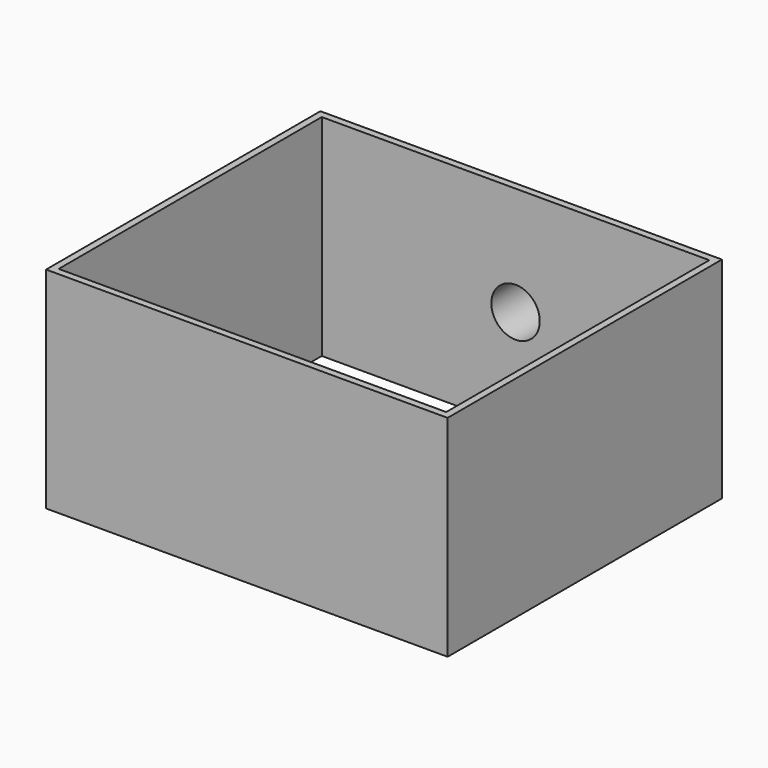
from build123d import *

# Parameters (mm, degrees)
F0_W     = 143.1653276086
F0_H     = 97.2580723464
F1_DEPTH = 25
F2_DEPTH = 25
F3_DEPTH = 25
F4_DEPTH = 25
F5_T     = -2.5
F6_R     = 10.6397034599
F7_DEPTH = 22
F8_T     = -2
F9_DEPTH = 25


with BuildPart() as f1:
    # F0 (on Top) → F1 (new body)
    with BuildSketch(Plane.XY):
        with Locations((3.7253e-06, -3.1754020602)):
            Rectangle(F0_W, F0_H)
    extrude(amount=F1_DEPTH)

    # F2 (add): faces of the model
    f2_faces = [f1.faces().sort_by_distance(p)[0] for p in [
        (3.7253e-06, -51.8044382334, 12.5),
        (3.7253e-06, 45.4536341131, 12.5),
    ]]
    extrude(f2_faces, amount=F2_DEPTH, dir=(0, -1, 0))

    # F3 (add): faces of the model
    f3_faces = [f1.faces().sort_by_distance(p)[0] for p in [
        (3.7253e-06, -15.6754020602, 25),
        (3.7253e-06, -15.6754020602, 0),
    ]]
    extrude(f3_faces, amount=F3_DEPTH, dir=(0, 0, 1))

    # F4 (add): faces of the model
    f4_faces = [f1.faces().sort_by_distance(p)[0] for p in [
        (3.7253e-06, -15.6754020602, 50),
        (3.7253e-06, -15.6754020602, 0),
    ]]
    extrude(f4_faces, amount=F4_DEPTH, dir=(0, 0, 1))

    # F5
    f5_openings = [f1.faces().sort_by_distance(p)[0] for p in [
        (4e-06, -15.675402, 0),
        (4e-06, -15.675402, 75),
    ]]
    offset(amount=F5_T, openings=f5_openings)

    # F6 (on face) → F7 (join)
    with BuildSketch(Plane(origin=(0, 45.4536341131, 0), x_dir=(-1, 0, 0), z_dir=(0, 1, 0))):
        with Locations((0, 36.1995995045)):
            Circle(F6_R)
    extrude(amount=F7_DEPTH)

    # F8
    f8_openings = [f1.faces().sort_by_distance(p)[0] for p in [
        (0, 67.453634, 36.1996),
    ]]
    offset(amount=F8_T, openings=f8_openings, kind=Kind.INTERSECTION)

    # F9 (cut): a face of the model
    f9_faces = [f1.faces().sort_by_distance(p)[0] for p in [
        (0, 44.9536341131, 36.1995995045),
    ]]
    extrude(f9_faces, amount=-F9_DEPTH, mode=Mode.SUBTRACT)


solid = f1.part
